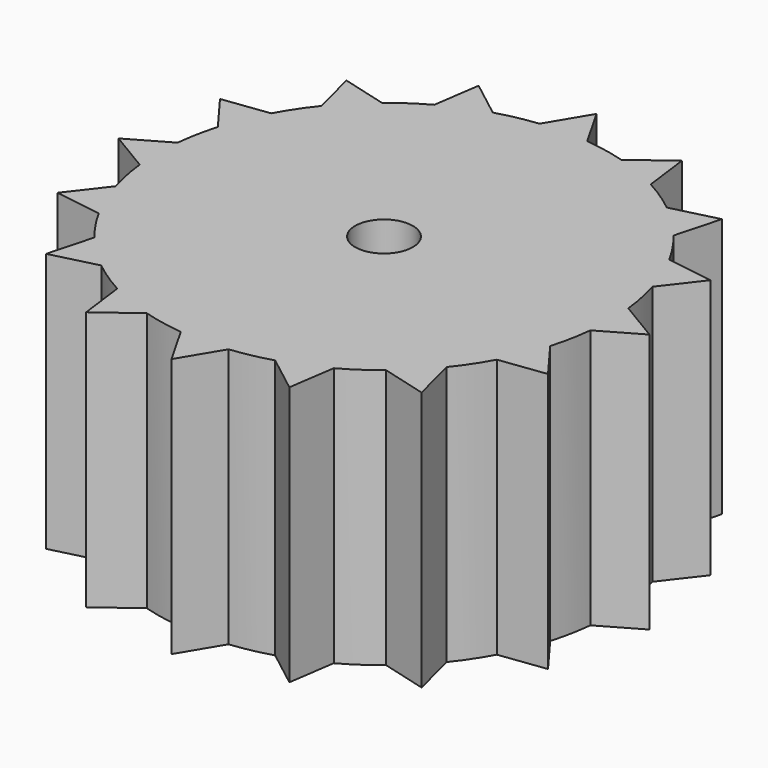
from build123d import *

# Parameters (mm, degrees)
F0_R     = 1.27
F1_DEPTH = 11.43


with BuildPart() as f1:
    # F0 (on Top) → F1 (new body)
    with BuildSketch(Plane.XY):
        with BuildLine():
            ThreePointArc((9.952559, 0), (9.93813, 0.535724), (9.894886, 1.069894))
            ThreePointArc((9.894886, 1.069894), (9.756852, 1.963995), (9.538198, 2.841867))
            ThreePointArc((9.538198, 2.841867), (9.18622, 3.829725), (8.732252, 4.775062))
            ThreePointArc((8.732252, 4.775062), (8.262568, 5.54828), (7.724611, 6.275654))
            ThreePointArc((7.724611, 6.275654), (7.021389, 7.053619), (6.240211, 7.75327))
            ThreePointArc((6.240211, 7.75327), (5.510382, 8.28789), (4.735021, 8.754028))
            ThreePointArc((4.735021, 8.754028), (3.787614, 9.203663), (2.798155, 9.551113))
            ThreePointArc((2.798155, 9.551113), (1.919291, 9.765744), (1.024567, 9.899682))
            ThreePointArc((1.024567, 9.899682), (-0.02279, 9.952533), (-1.069894, 9.894886))
            ThreePointArc((-1.069894, 9.894886), (-1.963995, 9.756852), (-2.841867, 9.538198))
            ThreePointArc((-2.841867, 9.538198), (-3.829725, 9.18622), (-4.775062, 8.732252))
            ThreePointArc((-4.775062, 8.732252), (-5.54828, 8.262568), (-6.275654, 7.724611))
            ThreePointArc((-6.275654, 7.724611), (-7.053619, 7.021389), (-7.75327, 6.240211))
            ThreePointArc((-7.75327, 6.240211), (-8.28789, 5.510382), (-8.754028, 4.735021))
            ThreePointArc((-8.754028, 4.735021), (-9.203663, 3.787614), (-9.551113, 2.798156))
            ThreePointArc((-9.551113, 2.798156), (-9.765744, 1.919291), (-9.899682, 1.024567))
            ThreePointArc((-9.899682, 1.024567), (-9.952533, -0.02279), (-9.894886, -1.069894))
            ThreePointArc((-9.894886, -1.069894), (-9.756852, -1.963995), (-9.538198, -2.841867))
            ThreePointArc((-9.538198, -2.841867), (-9.18622, -3.829725), (-8.732252, -4.775062))
            ThreePointArc((-8.732252, -4.775062), (-8.262568, -5.54828), (-7.724611, -6.275654))
            ThreePointArc((-7.724611, -6.275654), (-7.021389, -7.053619), (-6.240211, -7.75327))
            ThreePointArc((-6.240211, -7.75327), (-5.510382, -8.28789), (-4.735021, -8.754028))
            ThreePointArc((-4.735021, -8.754028), (-3.787614, -9.203663), (-2.798156, -9.551113))
            ThreePointArc((-2.798156, -9.551113), (-1.919291, -9.765744), (-1.024567, -9.899682))
            ThreePointArc((-1.024567, -9.899682), (0.02279, -9.952533), (1.069894, -9.894886))
            ThreePointArc((1.069894, -9.894886), (1.963995, -9.756852), (2.841867, -9.538198))
            ThreePointArc((2.841867, -9.538198), (3.829725, -9.18622), (4.775062, -8.732252))
            ThreePointArc((4.775062, -8.732252), (5.54828, -8.262568), (6.275654, -7.724611))
            ThreePointArc((6.275654, -7.724611), (7.053619, -7.021389), (7.75327, -6.240211))
            ThreePointArc((7.75327, -6.240211), (8.28789, -5.510382), (8.754028, -4.735021))
            ThreePointArc((8.754028, -4.735021), (9.203663, -3.787614), (9.551113, -2.798155))
            ThreePointArc((9.551113, -2.798155), (9.765744, -1.919291), (9.899682, -1.024567))
            ThreePointArc((9.899682, -1.024567), (9.939331, -0.512965), (9.952559, 0))
        make_face()
        Circle(F0_R, mode=Mode.SUBTRACT)
        with BuildLine():
            Line((-2.841867, 9.538198), (-4.471273, 10.794608))
            Line((-4.471273, 10.794608), (-4.775062, 8.732252))
            ThreePointArc((-4.775062, 8.732252), (-3.829725, 9.18622), (-2.841867, 9.538198))
        make_face()
        with BuildLine():
            Line((1.024567, 9.899682), (0, 11.684))
            Line((0, 11.684), (-1.069894, 9.894886))
            ThreePointArc((-1.069894, 9.894886), (-0.02279, 9.952533), (1.024567, 9.899682))
        make_face()
        with BuildLine():
            Line((4.735021, 8.754028), (4.471273, 10.794608))
            Line((4.471273, 10.794608), (2.798155, 9.551113))
            ThreePointArc((2.798155, 9.551113), (3.787614, 9.203663), (4.735021, 8.754028))
        make_face()
        with BuildLine():
            Line((7.724611, 6.275654), (8.261836, 8.261836))
            Line((8.261836, 8.261836), (6.240211, 7.75327))
            ThreePointArc((6.240211, 7.75327), (7.021389, 7.053619), (7.724611, 6.275654))
        make_face()
        with BuildLine():
            Line((9.538198, 2.841867), (10.794608, 4.471273))
            Line((10.794608, 4.471273), (8.732252, 4.775062))
            ThreePointArc((8.732252, 4.775062), (9.18622, 3.829725), (9.538198, 2.841867))
        make_face()
        with BuildLine():
            Line((9.899682, -1.024567), (11.684, 0))
            Line((11.684, 0), (9.894886, 1.069894))
            ThreePointArc((9.894886, 1.069894), (9.93813, 0.535724), (9.952559, 0))
            ThreePointArc((9.952559, 0), (9.939331, -0.512965), (9.899682, -1.024567))
        make_face()
        with BuildLine():
            Line((8.754028, -4.735021), (10.794608, -4.471273))
            Line((10.794608, -4.471273), (9.551113, -2.798155))
            ThreePointArc((9.551113, -2.798155), (9.203663, -3.787614), (8.754028, -4.735021))
        make_face()
        with BuildLine():
            Line((6.275654, -7.724611), (8.261836, -8.261836))
            Line((8.261836, -8.261836), (7.75327, -6.240211))
            ThreePointArc((7.75327, -6.240211), (7.053619, -7.021389), (6.275654, -7.724611))
        make_face()
        with BuildLine():
            Line((2.841867, -9.538198), (4.471273, -10.794608))
            Line((4.471273, -10.794608), (4.775062, -8.732252))
            ThreePointArc((4.775062, -8.732252), (3.829725, -9.18622), (2.841867, -9.538198))
        make_face()
        with BuildLine():
            Line((-1.024567, -9.899682), (0, -11.684))
            Line((0, -11.684), (1.069894, -9.894886))
            ThreePointArc((1.069894, -9.894886), (0.02279, -9.952533), (-1.024567, -9.899682))
        make_face()
        with BuildLine():
            Line((-4.735021, -8.754028), (-4.471273, -10.794608))
            Line((-4.471273, -10.794608), (-2.798156, -9.551113))
            ThreePointArc((-2.798156, -9.551113), (-3.787614, -9.203663), (-4.735021, -8.754028))
        make_face()
        with BuildLine():
            Line((-7.724611, -6.275654), (-8.261836, -8.261836))
            Line((-8.261836, -8.261836), (-6.240211, -7.75327))
            ThreePointArc((-6.240211, -7.75327), (-7.021389, -7.053619), (-7.724611, -6.275654))
        make_face()
        with BuildLine():
            Line((-9.538198, -2.841867), (-10.794608, -4.471273))
            Line((-10.794608, -4.471273), (-8.732252, -4.775062))
            ThreePointArc((-8.732252, -4.775062), (-9.18622, -3.829725), (-9.538198, -2.841867))
        make_face()
        with BuildLine():
            Line((-9.899682, 1.024567), (-11.684, 0))
            Line((-11.684, 0), (-9.894886, -1.069894))
            ThreePointArc((-9.894886, -1.069894), (-9.952533, -0.02279), (-9.899682, 1.024567))
        make_face()
        with BuildLine():
            Line((-8.754028, 4.735021), (-10.794608, 4.471273))
            Line((-10.794608, 4.471273), (-9.551113, 2.798156))
            ThreePointArc((-9.551113, 2.798156), (-9.203663, 3.787614), (-8.754028, 4.735021))
        make_face()
        with BuildLine():
            Line((-6.275654, 7.724611), (-8.261836, 8.261836))
            Line((-8.261836, 8.261836), (-7.75327, 6.240211))
            ThreePointArc((-7.75327, 6.240211), (-7.053619, 7.021389), (-6.275654, 7.724611))
        make_face()
    extrude(amount=F1_DEPTH)


solid = f1.part
